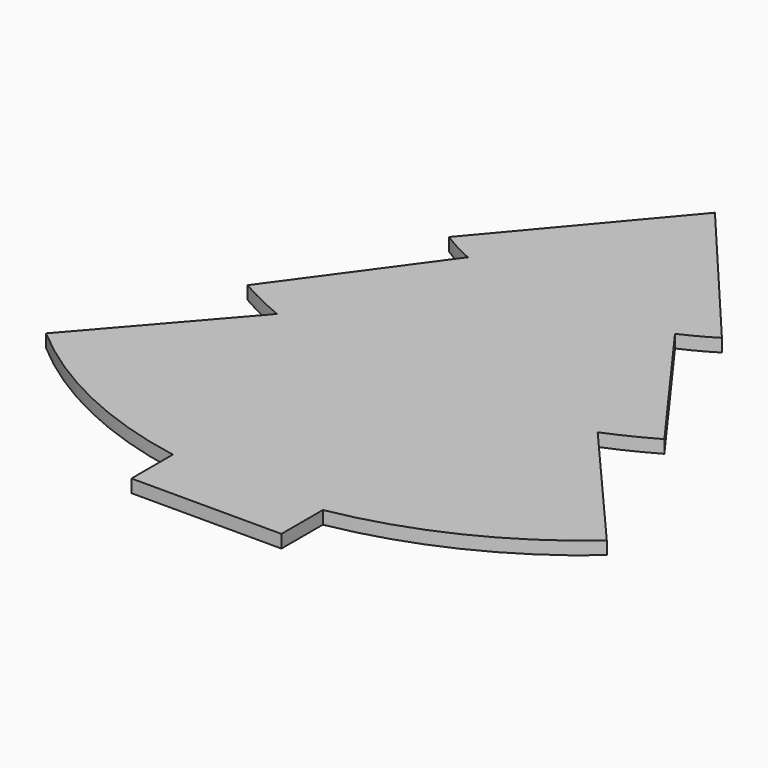
from build123d import *

# Parameters (mm, degrees)
F1_DEPTH = 4


with BuildPart() as f1:
    # F0 (on Top) → F1 (new body)
    with BuildSketch(Plane.XY):
        with BuildLine():
            Line((0, 100), (-42.1617882956, 50))
            ThreePointArc((-42.1617882956, 50), (-37.1768676119, 47.106612997), (-31.994432446, 44.5840174441))
            ThreePointArc((-31.994432446, 44.5840174441), (-21.0663934766, 40.6801499068), (-9.6846764242, 38.4176878845))
            ThreePointArc((-9.6846764242, 38.4176878845), (0.15722732, 37.8225468215), (9.9966866024, 38.4568205982))
            ThreePointArc((9.9966866024, 38.4568205982), (21.2178970455, 40.7221870715), (31.994432446, 44.5840174441))
            ThreePointArc((31.994432446, 44.5840174441), (37.1768676119, 47.106612997), (42.1617882956, 50))
            Line((42.1617882956, 50), (0, 100))
        make_face()
        with BuildLine():
            ThreePointArc((-9.6846764242, 38.4176878845), (-21.0663934766, 40.6801499068), (-31.994432446, 44.5840174441))
            Line((-31.994432446, 44.5840174441), (-64.382164337, 0))
            ThreePointArc((-64.382164337, 0), (-57.0326259859, -3.8851908994), (-49.4497308534, -7.2925540604))
            Line((-49.4497308534, -7.2925540604), (-9.6846764242, 38.4176878845))
        make_face()
        with BuildLine():
            ThreePointArc((9.9966866024, 38.4568205982), (0.15722732, 37.8225468215), (-9.6846764242, 38.4176878845))
            Line((-9.6846764242, 38.4176878845), (-49.4497308534, -7.2925540604))
            ThreePointArc((-49.4497308534, -7.2925540604), (0.0665901335, -17.0676588152), (49.5728681141, -7.2418175004))
            Line((49.5728681141, -7.2418175004), (9.9966866024, 38.4568205982))
        make_face()
        with BuildLine():
            ThreePointArc((31.994432446, 44.5840174441), (21.2178970455, 40.7221870715), (9.9966866024, 38.4568205982))
            Line((9.9966866024, 38.4568205982), (49.5728681141, -7.2418175004))
            ThreePointArc((49.5728681141, -7.2418175004), (57.0924542774, -3.8559535654), (64.382164337, 0))
            Line((64.382164337, 0), (31.994432446, 44.5840174441))
        make_face()
        with BuildLine():
            ThreePointArc((49.5728681141, -7.2418175004), (0.0665901335, -17.0676588152), (-49.4497308534, -7.2925540604))
            Line((-49.4497308534, -7.2925540604), (-86.6025403784, -50))
            ThreePointArc((-86.6025403784, -50), (-56.9443850461, -69.4774247767), (-23.1684497457, -80.347679982))
            Line((-23.1684497457, -80.347679982), (-23.1684497457, -50))
            Line((-23.1684497457, -50), (23.1684497457, -50))
            Line((23.1684497457, -50), (23.1684497457, -80.347679982))
            ThreePointArc((23.1684497457, -80.347679982), (56.9443850461, -69.4774247767), (86.6025403784, -50))
            Line((86.6025403784, -50), (49.5728681141, -7.2418175004))
        make_face()
        with BuildLine():
            Line((-23.1684497457, -50), (-23.1684497457, -80.347679982))
            ThreePointArc((-23.1684497457, -80.347679982), (0, -82.3976528812), (23.1684497457, -80.347679982))
            Line((23.1684497457, -80.347679982), (23.1684497457, -50))
            Line((23.1684497457, -50), (-23.1684497457, -50))
        make_face()
        with BuildLine():
            ThreePointArc((23.1684497457, -80.347679982), (0, -82.3976528812), (-23.1684497457, -80.347679982))
            Line((-23.1684497457, -80.347679982), (-23.1684497457, -96.3368994915))
            Line((-23.1684497457, -96.3368994915), (23.1684497457, -96.3368994915))
            Line((23.1684497457, -96.3368994915), (23.1684497457, -80.347679982))
        make_face()
    extrude(amount=F1_DEPTH)


solid = f1.part
